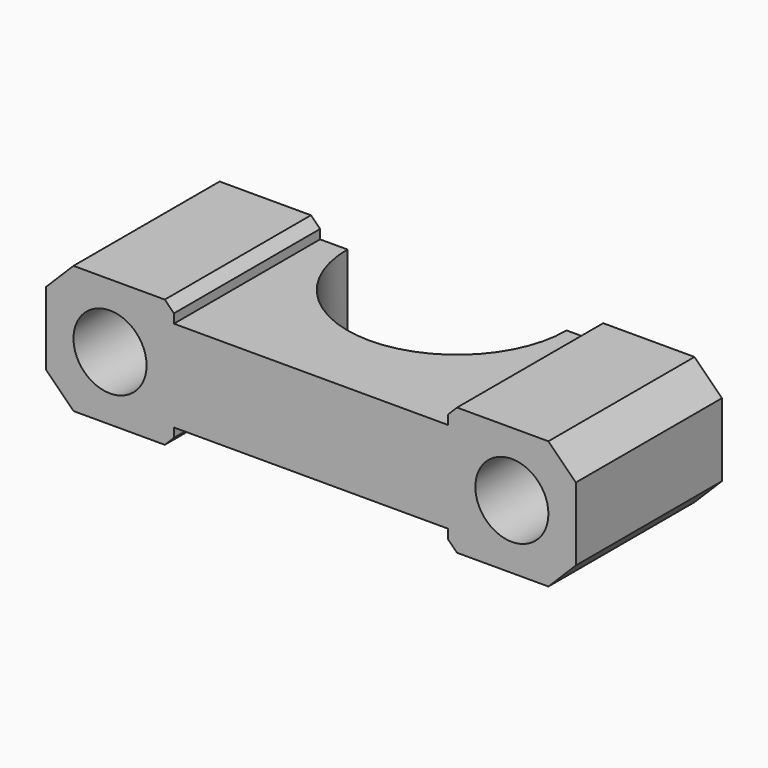
from build123d import *

# Parameters (mm, degrees)
SKETCH_R        = 2
PAD_DEPTH       = 10
POCKET_DEPTH    = 6.001
CHAMFER_SIZE    = 1.5
CHAMFER001_SIZE = 0.5


with BuildPart() as part:
    # Sketch → Pad (new body)
    with BuildSketch(Plane.XZ):
        Polygon((0, 7), (0, 0), (7, 0), (7, 1), (22, 1), (22, 0), (29, 0), (29, 7), (22, 7), (22, 6), (7, 6), (7, 7), align=None)
        with Locations((3.5, 3.5)):
            Circle(SKETCH_R, mode=Mode.SUBTRACT)
        with Locations((25.5, 3.5)):
            Circle(SKETCH_R, mode=Mode.SUBTRACT)
    extrude(amount=PAD_DEPTH)

    # Sketch001 (on Face10 of Pad) → Pocket (cut, through all)
    with BuildSketch(Plane(origin=(0, 0, 6), x_dir=(-1, 0, 0), z_dir=(0, 0, 1))):
        with BuildLine():
            ThreePointArc((-8.5, 0), (-14.5, 6), (-20.5, 0))
            Line((-20.5, 0), (-8.5, 0))
        make_face()
    extrude(amount=-POCKET_DEPTH, mode=Mode.SUBTRACT)

    # Chamfer
    chamfer_edges = [part.edges().sort_by_distance(p)[0] for p in [
        (0, -5, 0),
        (0, -5, 7),
        (29, -5, 0),
        (29, -5, 7),
    ]]
    chamfer(chamfer_edges, length=CHAMFER_SIZE)

    # Chamfer001
    chamfer001_edges = [part.edges().sort_by_distance(p)[0] for p in [
        (7, -5, 7),
        (22, -5, 7),
        (7, -5, 0),
        (22, -5, 0),
    ]]
    chamfer(chamfer001_edges, length=CHAMFER001_SIZE)


solid = part.part
